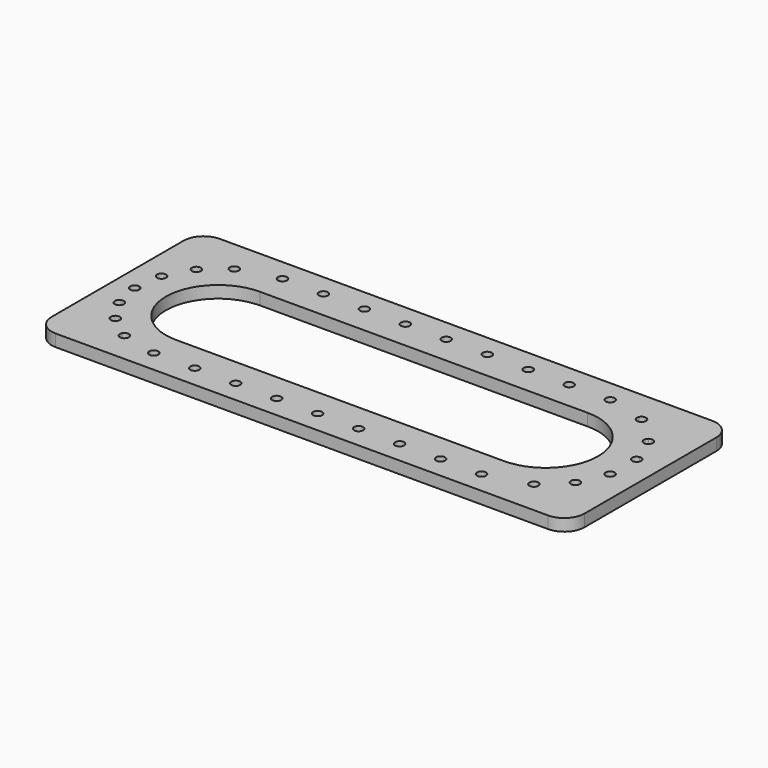
from build123d import *

# Parameters (mm, degrees)
F1_DEPTH = 12


with BuildPart() as f1:
    # F0 (on Top) → F1 (new body)
    with BuildSketch(Plane.XY):
        with BuildLine():
            ThreePointArc((0, -20), (-5.8578643763, -5.8578643763), (-20, 0))
            Line((-20, 0), (-510, 0))
            ThreePointArc((-510, 0), (-524.1421356237, -5.8578643763), (-530, -20))
            Line((-530, -20), (-530, -184))
            ThreePointArc((-530, -184), (-524.1421356237, -198.1421356237), (-510, -204))
            Line((-510, -204), (-20, -204))
            ThreePointArc((-20, -204), (-5.8578643763, -198.1421356237), (0, -184))
            Line((0, -184), (0, -20))
        make_face()
        with BuildLine():
            ThreePointArc((-65.4519767199, -172.1002846014), (-81.9291279834, -178.8952313764), (-99.5017801373, -181.8734375))
            ThreePointArc((-99.5017801373, -181.8734375), (-99.5004450563, -181.9367124908), (-99.5, -182))
            ThreePointArc((-99.5, -182), (-104, -186.5), (-108.5, -182))
            Line((-108.5, -182), (-140.25, -182))
            ThreePointArc((-140.25, -182), (-144.75, -186.5), (-149.25, -182))
            Line((-149.25, -182), (-181, -182))
            ThreePointArc((-181, -182), (-185.5, -186.5), (-190, -182))
            Line((-190, -182), (-221.75, -182))
            ThreePointArc((-221.75, -182), (-226.25, -186.5), (-230.75, -182))
            Line((-230.75, -182), (-262.5, -182))
            ThreePointArc((-262.5, -182), (-267, -186.5), (-271.5, -182))
            Line((-271.5, -182), (-303.25, -182))
            ThreePointArc((-303.25, -182), (-307.75, -186.5), (-312.25, -182))
            Line((-312.25, -182), (-344, -182))
            ThreePointArc((-344, -182), (-348.5, -186.5), (-353, -182))
            Line((-353, -182), (-384.75, -182))
            ThreePointArc((-384.75, -182), (-389.25, -186.5), (-393.75, -182))
            Line((-393.75, -182), (-425.5, -182))
            ThreePointArc((-425.5, -182), (-430.0632875092, -186.4995549437), (-434.4982198627, -181.8734375))
            ThreePointArc((-434.4982198627, -181.8734375), (-448.5679392383, -179.8153688704), (-462.0510491082, -175.2989102993))
            ThreePointArc((-462.0510491082, -175.2989102993), (-468.1536259261, -177.3959602942), (-470.0782113843, -171.2368180395))
            ThreePointArc((-470.0782113843, -171.2368180395), (-478.7743786861, -165.4118284217), (-486.6356366159, -158.5013687012))
            ThreePointArc((-486.6356366159, -158.5013687012), (-493.0823997438, -158.2215336198), (-492.6213601483, -151.7851911032))
            ThreePointArc((-492.6213601483, -151.7851911032), (-497.7956059382, -144.4706465158), (-502.1194895148, -136.6233914013))
            ThreePointArc((-502.1194895148, -136.6233914013), (-508.1120002281, -134.2298839644), (-505.5509002656, -128.3070612014))
            ThreePointArc((-505.5509002656, -128.3070612014), (-508.080172735, -119.4208675351), (-509.5680306838, -110.3023185374))
            ThreePointArc((-509.5680306838, -110.3023185374), (-514.4038519387, -106.0298607798), (-509.997076833, -101.3161153828))
            ThreePointArc((-509.997076833, -101.3161153828), (-509.2902263095, -91.367031845), (-507.3508600021, -81.5832309869))
            ThreePointArc((-507.3508600021, -81.5832309869), (-510.3600276767, -75.8749937453), (-504.5694156933, -73.027560628))
            ThreePointArc((-504.5694156933, -73.027560628), (-500.2591012463, -63.7422074335), (-494.7983314011, -55.0833052354))
            ThreePointArc((-494.7983314011, -55.0833052354), (-495.5485494674, -48.6742307817), (-489.120910471, -48.1045647102))
            ThreePointArc((-489.120910471, -48.1045647102), (-481.6690354204, -40.9237298231), (-473.3525530823, -34.7649188203))
            ThreePointArc((-473.3525530823, -34.7649188203), (-471.7255621238, -28.5205643363), (-465.5294369402, -30.3225341498))
            ThreePointArc((-465.5294369402, -30.3225341498), (-450.4290678961, -24.6523873355), (-434.4982198627, -22.1265625))
            ThreePointArc((-434.4982198627, -22.1265625), (-430.0632875092, -17.5004450563), (-425.5, -22))
            Line((-425.5, -22), (-393.75, -22))
            ThreePointArc((-393.75, -22), (-389.25, -17.5), (-384.75, -22))
            Line((-384.75, -22), (-353, -22))
            ThreePointArc((-353, -22), (-348.5, -17.5), (-344, -22))
            Line((-344, -22), (-312.25, -22))
            ThreePointArc((-312.25, -22), (-307.75, -17.5), (-303.25, -22))
            Line((-303.25, -22), (-271.5, -22))
            ThreePointArc((-271.5, -22), (-267, -17.5), (-262.5, -22))
            Line((-262.5, -22), (-230.75, -22))
            ThreePointArc((-230.75, -22), (-226.25, -17.5), (-221.75, -22))
            Line((-221.75, -22), (-190, -22))
            ThreePointArc((-190, -22), (-185.5, -17.5), (-181, -22))
            Line((-181, -22), (-149.25, -22))
            ThreePointArc((-149.25, -22), (-144.75, -17.5), (-140.25, -22))
            Line((-140.25, -22), (-108.5, -22))
            ThreePointArc((-108.5, -22), (-104, -17.5), (-99.5, -22))
            ThreePointArc((-99.5, -22), (-99.5004450563, -22.0632875092), (-99.5017801373, -22.1265625))
            ThreePointArc((-99.5017801373, -22.1265625), (-83.5709321039, -24.6523873355), (-68.4705630598, -30.3225341498))
            ThreePointArc((-68.4705630598, -30.3225341498), (-63.4086770357, -28.0671361555), (-59.9965092319, -32.4336703776))
            ThreePointArc((-59.9965092319, -32.4336703776), (-60.1622976303, -33.6438810176), (-60.6474469177, -34.7649188203))
            ThreePointArc((-60.6474469177, -34.7649188203), (-49.2641047488, -43.656347637), (-39.6651355348, -54.4497611547))
            ThreePointArc((-39.6651355348, -54.4497611547), (-35.0104118982, -54.1534454615), (-32.5932724402, -58.1423916836))
            ThreePointArc((-32.5932724402, -58.1423916836), (-33.1644846423, -60.3366173874), (-34.7331064133, -61.9737904262))
            ThreePointArc((-34.7331064133, -61.9737904262), (-29.7763726264, -72.1528369941), (-26.3062244277, -82.9296765281))
            ThreePointArc((-26.3062244277, -82.9296765281), (-22.5303886947, -83.8268104215), (-20.8568570607, -87.328392432))
            ThreePointArc((-20.8568570607, -87.328392432), (-21.9361546501, -90.2522246806), (-24.6563215132, -91.7735302191))
            ThreePointArc((-24.6563215132, -91.7735302191), (-24.0142443395, -103.509599757), (-25.098704585, -115.213083737))
            ThreePointArc((-25.098704585, -115.213083737), (-22.4912048008, -116.7698593997), (-21.4664708465, -119.6286224035))
            ThreePointArc((-21.4664708465, -119.6286224035), (-23.206580587, -123.1829163918), (-27.0811400712, -123.9883830069))
            ThreePointArc((-27.0811400712, -123.9883830069), (-30.7418771392, -134.1441664211), (-35.7366095136, -143.7146199706))
            ThreePointArc((-35.7366095136, -143.7146199706), (-34.2346960173, -145.3410912021), (-33.690123482, -147.4869228756))
            ThreePointArc((-33.690123482, -147.4869228756), (-36.1563870671, -151.5011371442), (-40.8518640129, -151.1153023136))
            ThreePointArc((-40.8518640129, -151.1153023136), (-48.7405572157, -159.8480248856), (-57.8250295667, -167.3289530414))
            ThreePointArc((-57.8250295667, -167.3289530414), (-57.2639108905, -168.5197200987), (-57.0713797401, -169.8219152107))
            ThreePointArc((-57.0713797401, -169.8219152107), (-60.3908473198, -174.1643043232), (-65.4519767199, -172.1002846014))
        make_face(mode=Mode.SUBTRACT)
        with BuildLine():
            ThreePointArc((-108.5, -182), (-104.0632875092, -177.5004450563), (-99.5017801373, -181.8734375))
            ThreePointArc((-99.5017801373, -181.8734375), (-81.9291279834, -178.8952313764), (-65.4519767199, -172.1002846014))
            ThreePointArc((-65.4519767199, -172.1002846014), (-63.9579896298, -166.0069324801), (-57.8250295667, -167.3289530414))
            ThreePointArc((-57.8250295667, -167.3289530414), (-48.7405572157, -159.8480248856), (-40.8518640129, -151.1153023136))
            ThreePointArc((-40.8518640129, -151.1153023136), (-41.8919290362, -144.9282834638), (-35.7366095136, -143.7146199706))
            ThreePointArc((-35.7366095136, -143.7146199706), (-30.7418771392, -134.1441664211), (-27.0811400712, -123.9883830069))
            ThreePointArc((-27.0811400712, -123.9883830069), (-30.3558568614, -118.6370123933), (-25.098704585, -115.213083737))
            ThreePointArc((-25.098704585, -115.213083737), (-24.0142443395, -103.509599757), (-24.6563215132, -91.7735302191))
            ThreePointArc((-24.6563215132, -91.7735302191), (-29.780533851, -88.1536703577), (-26.3062244277, -82.9296765281))
            ThreePointArc((-26.3062244277, -82.9296765281), (-29.7763726264, -72.1528369941), (-34.7331064133, -61.9737904262))
            ThreePointArc((-34.7331064133, -61.9737904262), (-40.8567758654, -60.6093821514), (-39.6651355348, -54.4497611547))
            ThreePointArc((-39.6651355348, -54.4497611547), (-49.2641047488, -43.656347637), (-60.6474469177, -34.7649188203))
            ThreePointArc((-60.6474469177, -34.7649188203), (-66.7185805876, -36.3467764189), (-68.4705630598, -30.3225341498))
            ThreePointArc((-68.4705630598, -30.3225341498), (-83.5709321039, -24.6523873355), (-99.5017801373, -22.1265625))
            ThreePointArc((-99.5017801373, -22.1265625), (-104.0632875092, -26.4995549437), (-108.5, -22))
            Line((-108.5, -22), (-140.25, -22))
            ThreePointArc((-140.25, -22), (-144.75, -26.5), (-149.25, -22))
            Line((-149.25, -22), (-181, -22))
            ThreePointArc((-181, -22), (-185.5, -26.5), (-190, -22))
            Line((-190, -22), (-221.75, -22))
            ThreePointArc((-221.75, -22), (-226.25, -26.5), (-230.75, -22))
            Line((-230.75, -22), (-262.5, -22))
            ThreePointArc((-262.5, -22), (-267, -26.5), (-271.5, -22))
            Line((-271.5, -22), (-303.25, -22))
            ThreePointArc((-303.25, -22), (-307.75, -26.5), (-312.25, -22))
            Line((-312.25, -22), (-344, -22))
            ThreePointArc((-344, -22), (-348.5, -26.5), (-353, -22))
            Line((-353, -22), (-384.75, -22))
            ThreePointArc((-384.75, -22), (-389.25, -26.5), (-393.75, -22))
            Line((-393.75, -22), (-425.5, -22))
            ThreePointArc((-425.5, -22), (-429.9367124908, -26.4995549437), (-434.4982198627, -22.1265625))
            ThreePointArc((-434.4982198627, -22.1265625), (-450.4290678961, -24.6523873355), (-465.5294369402, -30.3225341498))
            ThreePointArc((-465.5294369402, -30.3225341498), (-465.136956546, -31.3458381814), (-465.0034907681, -32.4336703776))
            ThreePointArc((-465.0034907681, -32.4336703776), (-468.2932801282, -36.7678819791), (-473.3525530823, -34.7649188203))
            ThreePointArc((-473.3525530823, -34.7649188203), (-481.6690354204, -40.9237298231), (-489.120910471, -48.1045647102))
            ThreePointArc((-489.120910471, -48.1045647102), (-487.9671996223, -49.6386973861), (-487.5577983123, -51.5140646454))
            ThreePointArc((-487.5577983123, -51.5140646454), (-490.068124834, -55.5503004474), (-494.7983314011, -55.0833052354))
            ThreePointArc((-494.7983314011, -55.0833052354), (-500.2591012463, -63.7422074335), (-504.5694156933, -73.027560628))
            ThreePointArc((-504.5694156933, -73.027560628), (-502.4028727952, -74.6729939595), (-501.5804995755, -77.2662662678))
            ThreePointArc((-501.5804995755, -77.2662662678), (-503.3848198764, -80.8695024465), (-507.3508600021, -81.5832309869))
            ThreePointArc((-507.3508600021, -81.5832309869), (-509.2902263095, -91.367031845), (-509.997076833, -101.3161153828))
            ThreePointArc((-509.997076833, -101.3161153828), (-506.7582953879, -102.6022736135), (-505.4089722497, -105.8152528093))
            ThreePointArc((-505.4089722497, -105.8152528093), (-506.6086512769, -108.8743182673), (-509.5680306838, -110.3023185374))
            ThreePointArc((-509.5680306838, -110.3023185374), (-508.080172735, -119.4208675351), (-505.5509002656, -128.3070612014))
            ThreePointArc((-505.5509002656, -128.3070612014), (-501.3972138463, -128.809164438), (-499.4521895651, -132.5134996113))
            ThreePointArc((-499.4521895651, -132.5134996113), (-500.1774610831, -134.9632801906), (-502.1194895148, -136.6233914013))
            ThreePointArc((-502.1194895148, -136.6233914013), (-497.7956059382, -144.4706465158), (-492.6213601483, -151.7851911032))
            ThreePointArc((-492.6213601483, -151.7851911032), (-487.8246540101, -151.1474934776), (-485.222982006, -155.2274874507))
            ThreePointArc((-485.222982006, -155.2274874507), (-485.5912115468, -157.0103146639), (-486.6356366159, -158.5013687012))
            ThreePointArc((-486.6356366159, -158.5013687012), (-478.7743786861, -165.4118284217), (-470.0782113843, -171.2368180395))
            ThreePointArc((-470.0782113843, -171.2368180395), (-465.0158734789, -169.0187981977), (-461.6217760248, -173.3807908111))
            ThreePointArc((-461.6217760248, -173.3807908111), (-461.7304054457, -174.3635748351), (-462.0510491082, -175.2989102993))
            ThreePointArc((-462.0510491082, -175.2989102993), (-448.5679392383, -179.8153688704), (-434.4982198627, -181.8734375))
            ThreePointArc((-434.4982198627, -181.8734375), (-429.9367124908, -177.5004450563), (-425.5, -182))
            Line((-425.5, -182), (-393.75, -182))
            ThreePointArc((-393.75, -182), (-389.25, -177.5), (-384.75, -182))
            Line((-384.75, -182), (-353, -182))
            ThreePointArc((-353, -182), (-348.5, -177.5), (-344, -182))
            Line((-344, -182), (-312.25, -182))
            ThreePointArc((-312.25, -182), (-307.75, -177.5), (-303.25, -182))
            Line((-303.25, -182), (-271.5, -182))
            ThreePointArc((-271.5, -182), (-267, -177.5), (-262.5, -182))
            Line((-262.5, -182), (-230.75, -182))
            ThreePointArc((-230.75, -182), (-226.25, -177.5), (-221.75, -182))
            Line((-221.75, -182), (-190, -182))
            ThreePointArc((-190, -182), (-185.5, -177.5), (-181, -182))
            Line((-181, -182), (-149.25, -182))
            ThreePointArc((-149.25, -182), (-144.75, -177.5), (-140.25, -182))
            Line((-140.25, -182), (-108.5, -182))
        make_face()
        with BuildLine():
            ThreePointArc((-430, -154), (-482, -102), (-430, -50))
            Line((-430, -50), (-104, -50))
            ThreePointArc((-104, -50), (-52, -102), (-104, -154))
            Line((-104, -154), (-430, -154))
        make_face(mode=Mode.SUBTRACT)
    extrude(amount=F1_DEPTH)


solid = f1.part
